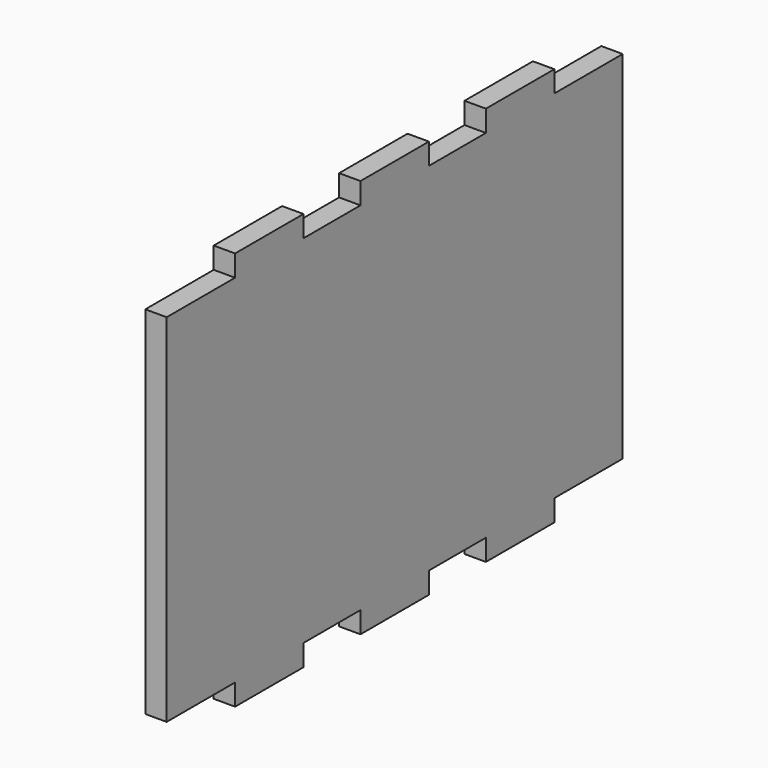
from build123d import *

# Parameters (mm, degrees)
BINDER_W                = 80
BINDER_H                = 50
PAD_DEPTH               = 3
BINDER001_W             = 12
BINDER001_H             = 3
PAD001_DEPTH            = 3
BINDER001_MIRRORED_2_W  = 12
BINDER001_MIRRORED_2_H  = 3
PAD001_MIRRORED_2_DEPTH = 3
LINEARPATTERN_COUNT     = 3
LINEARPATTERN_PITCH     = 22


with BuildPart() as part:
    # Binder → Pad (new body)
    with BuildSketch(Plane(origin=(47, 0, 0), x_dir=(0, -1, 0), z_dir=(1, 0, 0))):
        Rectangle(BINDER_W, BINDER_H)
    extrude(amount=PAD_DEPTH)

    # Binder001 → Pad001 (join)
    with BuildSketch(Plane(origin=(48.5, -22, 25), x_dir=(0, 1, 0), z_dir=(0, 0, 1))):
        Rectangle(BINDER001_W, BINDER001_H)
    pad001 = extrude(amount=PAD001_DEPTH)

    # Binder001 Mirrored 2 → Pad001 Mirrored 2 (add)
    with BuildSketch(Plane(origin=(48.5, -22, -25), x_dir=(0, 1, 0), z_dir=(0, 0, 1))):
        Rectangle(BINDER001_MIRRORED_2_W, BINDER001_MIRRORED_2_H)
    pad001_mirrored_2 = extrude(amount=-PAD001_MIRRORED_2_DEPTH)

    # LinearPattern: Pad001, Pad001 Mirrored 2 ×3
    with Locations(*[(0, i * LINEARPATTERN_PITCH, 0) for i in range(1, LINEARPATTERN_COUNT)]):
        add(pad001)
        add(pad001_mirrored_2)


solid = part.part
